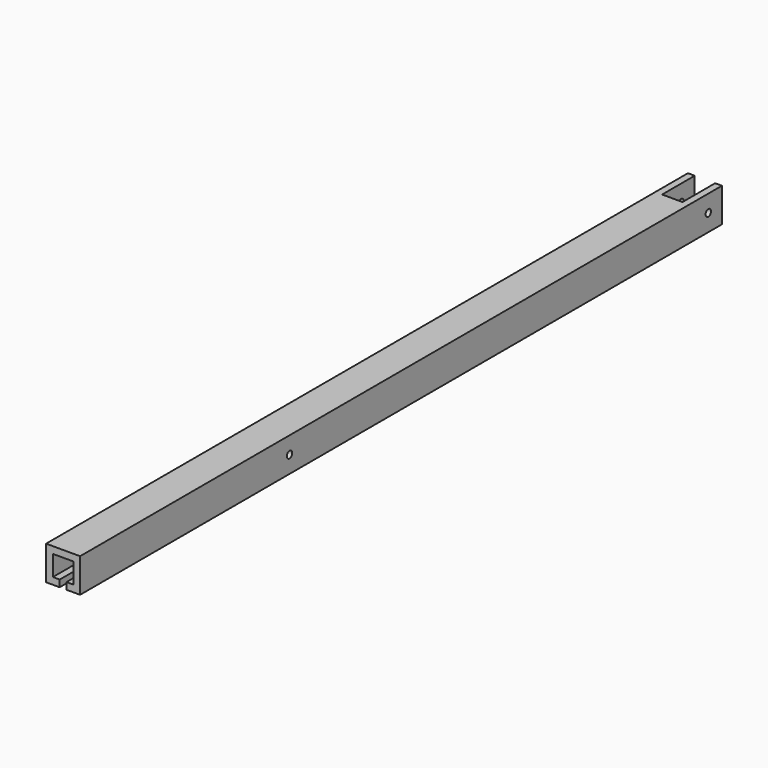
from build123d import *

# Parameters (mm, degrees)
F0_W     = 5
F0_H     = 5
F1_DEPTH = 118
F2_W     = 1
F2_H     = 1
F3_DEPTH = 118.001
F4_R     = 0.5
F5_DEPTH = 5.001
F6_R     = 0.5
F7_DEPTH = 5.001
F8_W     = 3
F8_H     = 6
F9_DEPTH = 5.001


with BuildPart() as f1:
    # F0 (on Front) → F1 (new body)
    with BuildSketch(Plane.XZ):
        Rectangle(F0_W, F0_H)
    extrude(amount=F1_DEPTH)

    # F2 (on face) → F3 (cut, through all)
    with BuildSketch(Plane.XZ.offset(118)):
        Polygon((0.5, -1.5), (1.5, -1.5), (1.5, 1.5), (-1.5, 1.5), (-1.5, -1.5), (-0.5, -1.5), align=None)
        with Locations((0, -2)):
            Rectangle(F2_W, F2_H)
    extrude(amount=-F3_DEPTH, mode=Mode.SUBTRACT)

    # F4 (on face) → F5 (cut, through all)
    with BuildSketch(Plane.YZ.offset(2.5)):
        with Locations((-79.5, 0)):
            Circle(F4_R)
    extrude(amount=-F5_DEPTH, mode=Mode.SUBTRACT)

    # F6 (on face) → F7 (cut, through all)
    with BuildSketch(Plane.YZ.offset(2.5)):
        with Locations((-2.5, 0)):
            Circle(F6_R)
    extrude(amount=-F7_DEPTH, mode=Mode.SUBTRACT)

    # F8 (on face) → F9 (cut, through all)
    with BuildSketch(Plane.XY.offset(2.5)):
        with Locations((0, -3)):
            Rectangle(F8_W, F8_H)
    extrude(amount=-F9_DEPTH, mode=Mode.SUBTRACT)


solid = f1.part
